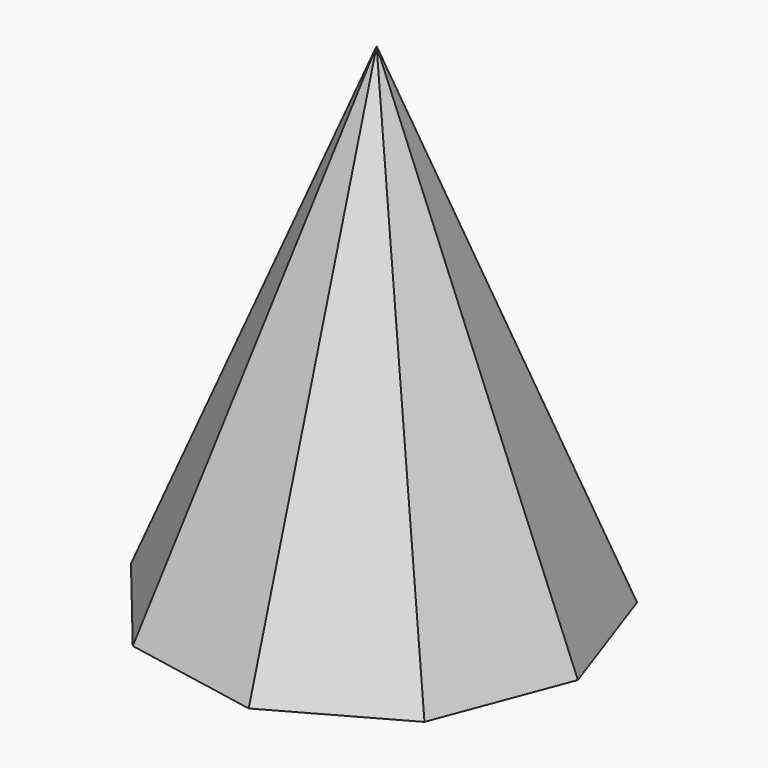
from build123d import *


with BuildPart() as f3:
    # F0 (on Top) → F3 section 0
    with BuildSketch(Plane.XY, mode=Mode.PRIVATE) as f3_s0:
        Polygon((11.500659, 60.568947), (-30.122953, 53.790987), (-57.6517, 21.843626), (-58.204576, -20.32461), (-31.522885, -52.982735), (9.908715, -60.84965), (46.703917, -40.244337), (61.645837, -0.808251), (47.742985, 39.006024), align=None)
    loft([f3_s0.sketch, Vertex(0, 0, 148.8)])


solid = f3.part
